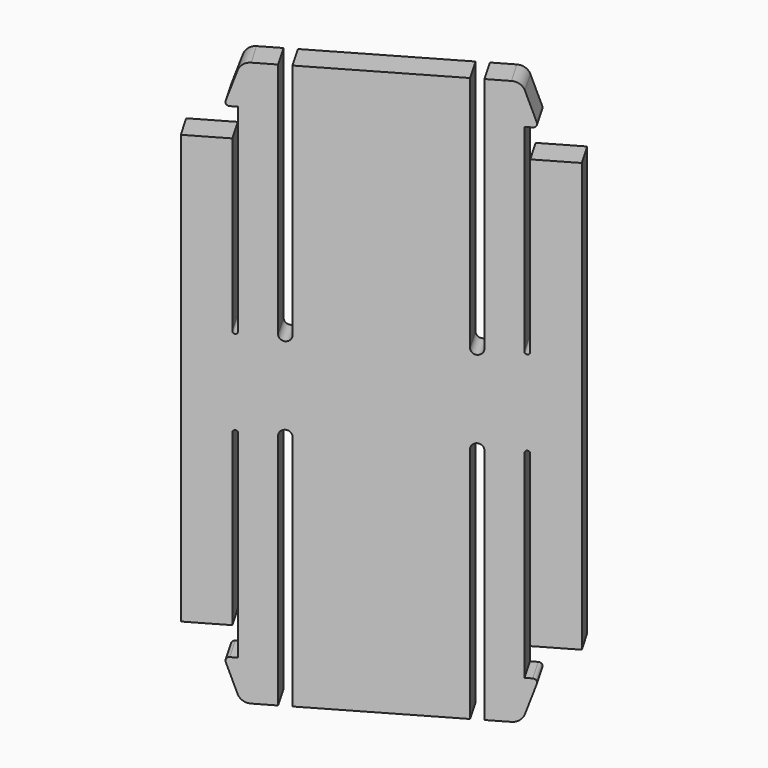
from build123d import *

# Parameters (mm, degrees)
PAD003_DEPTH = 2.5
FILLET002_R  = 1
FILLET003_R  = 0.3


with BuildPart() as part:
    # Sketch033 (on Face94 of Binder) → Pad003 (new body)
    with BuildSketch(Plane(origin=(1.8936722157, -3.2799364905, 0), x_dir=(0.8660254038, 0.5, 0), z_dir=(0.5, -0.8660254038, 0))):
        with BuildLine():
            Line((-10.53, 58.8773011628), (-14.13, 58.8773011628))
            Line((-14.13, 58.8773011628), (-14.13, 21))
            Line((-14.13, 21), (-10.53, 21))
            Line((-10.53, 36), (-10.53, 21))
            ThreePointArc((-10.13, 36), (-10.33, 36.2), (-10.53, 36))
            Line((-10.13, 21), (-10.13, 36))
            Line((-10.13, 21), (-10.13, 18.5))
            Line((-10.13, 18.5), (-11.13, 18.5))
            Line((-11.13, 18.5), (-9.93, 15))
            Line((-9.93, 15), (-7.33, 15))
            Line((-7.33, 15), (-7.33, 36))
            ThreePointArc((-6.33, 36), (-6.83, 36.5), (-7.33, 36))
            Line((-6.33, 36), (-6.33, 15))
            Line((-6.33, 15), (6.07, 15))
            Line((6.07, 15), (6.07, 36))
            ThreePointArc((7.07, 36), (6.57, 36.5), (6.07, 36))
            Line((7.07, 36), (7.07, 15))
            Line((7.07, 15), (9.67, 15))
            Line((9.67, 15), (10.87, 18.5))
            Line((10.87, 18.5), (9.87, 18.5))
            Line((9.87, 21), (9.87, 18.5))
            Line((9.87, 21), (9.87, 36))
            ThreePointArc((10.27, 36), (10.07, 36.2), (9.87, 36))
            Line((10.27, 36), (10.27, 21))
            Line((13.87, 21), (10.27, 21))
            Line((13.87, 58.8773011628), (13.87, 21))
            Line((10.27, 58.8773011628), (13.87, 58.8773011628))
            Line((10.27, 43.8773011628), (10.27, 58.8773011628))
            ThreePointArc((9.87, 43.8773011628), (10.07, 43.6773011628), (10.27, 43.8773011628))
            Line((9.87, 58.8773011628), (9.87, 43.8773011628))
            Line((9.87, 61.3773011628), (9.87, 58.8773011628))
            Line((10.87, 61.3773011628), (9.87, 61.3773011628))
            Line((9.67, 64.8773011628), (10.87, 61.3773011628))
            Line((7.07, 64.8773011628), (9.67, 64.8773011628))
            Line((7.07, 43.8773011628), (7.07, 64.8773011628))
            ThreePointArc((6.07, 43.8773011628), (6.57, 43.3773011628), (7.07, 43.8773011628))
            Line((6.07, 64.8773011628), (6.07, 43.8773011628))
            Line((-6.33, 64.8773011628), (6.07, 64.8773011628))
            Line((-6.33, 43.8773011628), (-6.33, 64.8773011628))
            ThreePointArc((-7.33, 43.8773011628), (-6.83, 43.3773011628), (-6.33, 43.8773011628))
            Line((-7.33, 64.8773011628), (-7.33, 43.8773011628))
            Line((-9.93, 64.8773011628), (-7.33, 64.8773011628))
            Line((-11.13, 61.3773011628), (-9.93, 64.8773011628))
            Line((-10.13, 61.3773011628), (-11.13, 61.3773011628))
            Line((-10.13, 58.8773011628), (-10.13, 61.3773011628))
            Line((-10.13, 58.8773011628), (-10.13, 43.8773011628))
            ThreePointArc((-10.53, 43.8773011628), (-10.33, 43.6773011628), (-10.13, 43.8773011628))
            Line((-10.53, 43.8773011628), (-10.53, 58.8773011628))
        make_face()
    extrude(amount=PAD003_DEPTH)

    # Fillet002
    fillet002_edges = [part.edges().sort_by_distance(p)[0] for p in [
        (10.893138, 0.472532, 15),
        (-6.08096, -9.327468, 15),
        (-6.08096, -9.327468, 64.877301),
        (10.893138, 0.472532, 64.877301),
    ]]
    fillet(fillet002_edges, radius=FILLET002_R)

    # Fillet003
    fillet003_edges = [part.edges().sort_by_distance(p)[0] for p in [
        (11.932368, 1.072532, 18.5),
        (-7.120191, -9.927468, 18.5),
        (-7.120191, -9.927468, 61.377301),
        (11.932368, 1.072532, 61.377301),
    ]]
    fillet(fillet003_edges, radius=FILLET003_R)


solid = part.part
